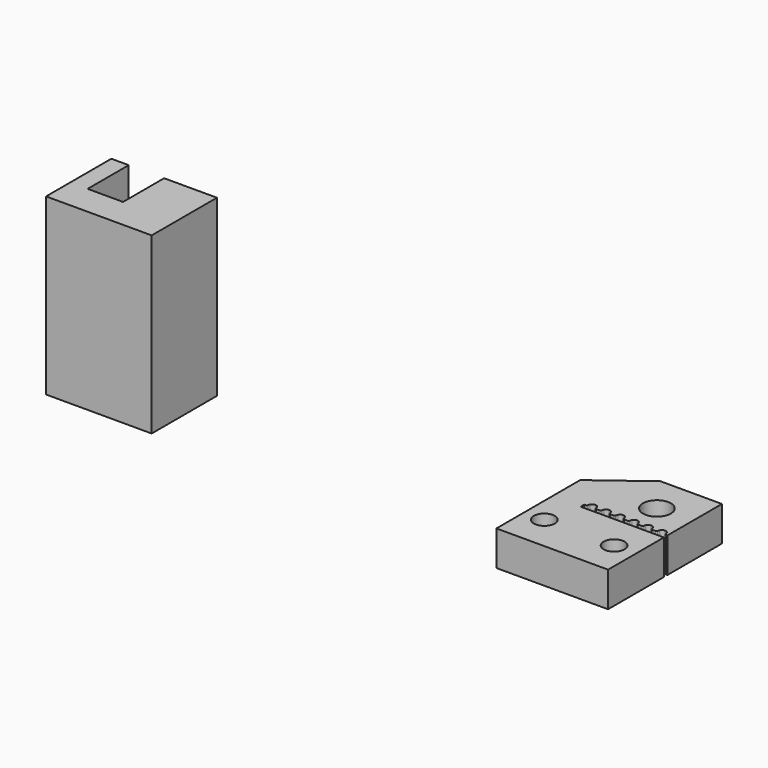
from build123d import *

# Parameters (mm, degrees)
F0_R     = 1.5
F0_R_2   = 2
F1_DEPTH = 5
F3_DEPTH = 25


with BuildPart() as f1:
    # F0 (on Top) → F1 (new body)
    with BuildSketch(Plane.XY):
        with BuildLine():
            Line((22.635065, 47.938364), (38.635065, 47.938364))
            Line((38.635065, 47.938364), (38.635065, 57.938363))
            Line((38.635065, 57.938363), (37.695793, 57.938363))
            Line((37.695793, 57.938363), (36.695793, 57.938363))
            Line((36.695793, 57.938363), (35.695793, 57.938363))
            Line((35.695793, 57.938363), (34.695793, 57.938363))
            Line((34.695793, 57.938363), (33.695793, 57.938363))
            Line((33.695793, 57.938363), (32.695793, 57.938363))
            Line((32.695793, 57.938363), (31.695793, 57.938363))
            Line((31.695793, 57.938363), (30.695793, 57.938363))
            Line((30.695793, 57.938363), (29.695793, 57.938363))
            Line((29.695793, 57.938363), (28.695793, 57.938363))
            Line((28.695793, 57.938363), (27.695793, 57.938363))
            Line((27.695793, 57.938363), (26.695793, 57.938363))
            Line((26.695793, 57.938363), (26.695793, 58.568363))
            Line((26.695793, 58.568363), (26.955618, 58.568363))
            ThreePointArc((26.955618, 58.568363), (27.054525, 58.605592), (27.104336, 58.698798))
            ThreePointArc((27.104336, 58.698798), (27.138182, 58.856426), (27.196917, 59.006566))
            ThreePointArc((27.196917, 59.006566), (27.401644, 59.234002), (27.695793, 59.318363))
            ThreePointArc((27.695793, 59.318363), (27.989943, 59.234002), (28.19467, 59.006566))
            ThreePointArc((28.19467, 59.006566), (28.253405, 58.856426), (28.28725, 58.698798))
            ThreePointArc((28.28725, 58.698798), (28.337062, 58.605592), (28.435969, 58.568363))
            Line((28.435969, 58.568363), (28.695793, 58.568363))
            Line((28.695793, 58.568363), (28.955618, 58.568363))
            ThreePointArc((28.955618, 58.568363), (29.054525, 58.605592), (29.104336, 58.698798))
            ThreePointArc((29.104336, 58.698798), (29.138182, 58.856426), (29.196917, 59.006566))
            ThreePointArc((29.196917, 59.006566), (29.401644, 59.234002), (29.695793, 59.318363))
            ThreePointArc((29.695793, 59.318363), (29.989943, 59.234002), (30.19467, 59.006566))
            ThreePointArc((30.19467, 59.006566), (30.253405, 58.856426), (30.28725, 58.698798))
            ThreePointArc((30.28725, 58.698798), (30.337062, 58.605592), (30.435969, 58.568363))
            Line((30.435969, 58.568363), (30.695793, 58.568363))
            Line((30.695793, 58.568363), (30.955618, 58.568363))
            ThreePointArc((30.955618, 58.568363), (31.054525, 58.605592), (31.104336, 58.698798))
            ThreePointArc((31.104336, 58.698798), (31.138182, 58.856426), (31.196917, 59.006566))
            ThreePointArc((31.196917, 59.006566), (31.401644, 59.234002), (31.695793, 59.318363))
            ThreePointArc((31.695793, 59.318363), (31.989943, 59.234002), (32.19467, 59.006566))
            ThreePointArc((32.19467, 59.006566), (32.253405, 58.856426), (32.28725, 58.698798))
            ThreePointArc((32.28725, 58.698798), (32.337062, 58.605592), (32.435969, 58.568363))
            Line((32.435969, 58.568363), (32.695793, 58.568363))
            Line((32.695793, 58.568363), (32.955618, 58.568363))
            ThreePointArc((32.955618, 58.568363), (33.054525, 58.605592), (33.104336, 58.698798))
            ThreePointArc((33.104336, 58.698798), (33.138182, 58.856426), (33.196917, 59.006566))
            ThreePointArc((33.196917, 59.006566), (33.401644, 59.234002), (33.695793, 59.318363))
            ThreePointArc((33.695793, 59.318363), (33.989943, 59.234002), (34.19467, 59.006566))
            ThreePointArc((34.19467, 59.006566), (34.253405, 58.856426), (34.28725, 58.698798))
            ThreePointArc((34.28725, 58.698798), (34.337062, 58.605592), (34.435969, 58.568363))
            Line((34.435969, 58.568363), (34.695793, 58.568363))
            Line((34.695793, 58.568363), (34.955618, 58.568363))
            ThreePointArc((34.955618, 58.568363), (35.054525, 58.605592), (35.104336, 58.698798))
            ThreePointArc((35.104336, 58.698798), (35.138182, 58.856426), (35.196917, 59.006566))
            ThreePointArc((35.196917, 59.006566), (35.401644, 59.234002), (35.695793, 59.318363))
            ThreePointArc((35.695793, 59.318363), (35.989943, 59.234002), (36.19467, 59.006566))
            ThreePointArc((36.19467, 59.006566), (36.253405, 58.856426), (36.28725, 58.698798))
            ThreePointArc((36.28725, 58.698798), (36.337062, 58.605592), (36.435969, 58.568363))
            Line((36.435969, 58.568363), (36.695793, 58.568363))
            Line((36.695793, 58.568363), (36.955618, 58.568363))
            ThreePointArc((36.955618, 58.568363), (37.054525, 58.605592), (37.104336, 58.698798))
            ThreePointArc((37.104336, 58.698798), (37.138182, 58.856426), (37.196917, 59.006566))
            ThreePointArc((37.196917, 59.006566), (37.401644, 59.234002), (37.695793, 59.318363))
            ThreePointArc((37.695793, 59.318363), (37.989943, 59.234002), (38.19467, 59.006566))
            ThreePointArc((38.19467, 59.006566), (38.253405, 58.856426), (38.28725, 58.698798))
            ThreePointArc((38.28725, 58.698798), (38.337062, 58.605592), (38.435969, 58.568363))
            Line((38.435969, 58.568363), (38.635065, 58.568363))
            Line((38.635065, 58.568363), (38.635065, 68.334497))
            Line((38.635065, 68.334497), (29.829909, 68.334497))
            Line((29.829909, 68.334497), (22.635065, 62.938364))
            Line((22.635065, 62.938364), (22.635065, 47.938364))
        make_face()
        with Locations((25.501795, 52.938364)):
            Circle(F0_R, mode=Mode.SUBTRACT)
        with Locations((35.501795, 52.938364)):
            Circle(F0_R, mode=Mode.SUBTRACT)
        with Locations((33.635065, 62.938364)):
            Circle(F0_R_2, mode=Mode.SUBTRACT)
    extrude(amount=F1_DEPTH)


with BuildPart() as f3:
    # F2 (on Top) → F3 (new body)
    with BuildSketch(Plane.XY):
        Polygon((-40.496297, 60.982537), (-42.985808, 60.982537), (-42.985808, 49.290396), (-27.854804, 49.290396), (-27.854804, 60.982537), (-35.420306, 60.982537), (-35.420306, 53.620983), (-40.496297, 53.620983), align=None)
    extrude(amount=F3_DEPTH)


solid = Compound([f1.part, f3.part])
